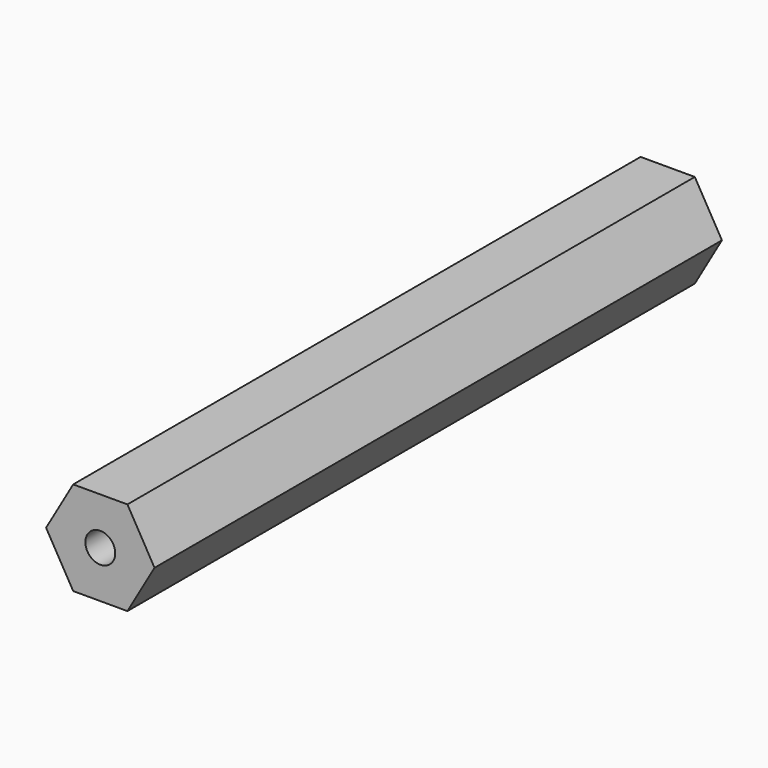
from build123d import *

# Parameters (mm, degrees)
F1_DEPTH = 95.8977
F3_D     = 4.0386


with BuildPart() as f1:
    # F0 (on Front) → F1 (new body)
    with BuildSketch(Plane.XZ):
        Polygon((3.666174, 6.35), (-3.666174, 6.35), (-7.332348, 0), (-3.666174, -6.35), (3.666174, -6.35), (7.332348, 0), align=None)
    extrude(amount=F1_DEPTH)

    # F3 (through all)
    with Locations(Plane.XZ.offset(95.8977)):
        with Locations((0, 0)):
            Hole(F3_D / 2)


solid = f1.part
